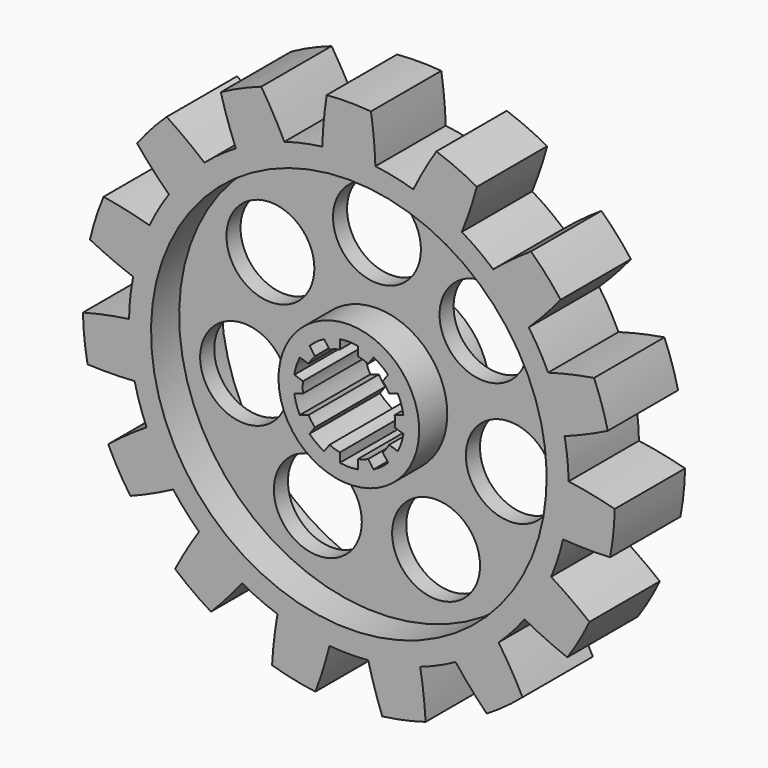
from build123d import *

# Parameters (mm, degrees)
F1_DEPTH = 20
F3_DEPTH = 20
F4_R     = 10
F5_DEPTH = 25
F6_R     = 45
F6_R_2   = 16
F7_DEPTH = 8
F8_W     = 24.246528
F8_H     = 29


with BuildPart() as f1:
    # F0 (on Front) → F1 (new body)
    with BuildSketch(Plane.XZ):
        with BuildLine():
            ThreePointArc((48.729363, -11.200408), (49.681325, -5.636126), (50, 0))
            ThreePointArc((50, 0), (49.998301, 0.412138), (49.993206, 0.824248))
            ThreePointArc((49.993206, 0.824248), (49.726095, 5.226423), (49.072105, 9.587936))
            ThreePointArc((49.072105, 9.587936), (47.552826, 15.45085), (45.335814, 21.087057))
            ThreePointArc((45.335814, 21.087057), (43.30127, 25), (40.929834, 28.718438))
            ThreePointArc((40.929834, 28.718438), (37.157241, 33.45653), (32.839448, 37.703722))
            ThreePointArc((32.839448, 37.703722), (29.389263, 40.45085), (25.710422, 42.883262))
            ThreePointArc((25.710422, 42.883262), (20.336832, 45.677273), (14.664844, 47.801071))
            ThreePointArc((14.664844, 47.801071), (10.395585, 48.90738), (6.045446, 49.63318))
            ThreePointArc((6.045446, 49.63318), (0, 50), (-6.045446, 49.63318))
            ThreePointArc((-6.045446, 49.63318), (-10.395585, 48.90738), (-14.664844, 47.801071))
            ThreePointArc((-14.664844, 47.801071), (-20.336832, 45.677273), (-25.710422, 42.883262))
            ThreePointArc((-25.710422, 42.883262), (-29.389263, 40.45085), (-32.839448, 37.703722))
            ThreePointArc((-32.839448, 37.703722), (-37.157241, 33.45653), (-40.929834, 28.718438))
            ThreePointArc((-40.929834, 28.718438), (-43.30127, 25), (-45.335814, 21.087057))
            ThreePointArc((-45.335814, 21.087057), (-47.552826, 15.45085), (-49.072105, 9.587936))
            ThreePointArc((-49.072105, 9.587936), (-49.726095, 5.226423), (-49.993206, 0.824248))
            ThreePointArc((-49.993206, 0.824248), (-49.726095, -5.226423), (-48.729363, -11.200408))
            ThreePointArc((-48.729363, -11.200408), (-47.552826, -15.45085), (-46.006318, -19.581081))
            ThreePointArc((-46.006318, -19.581081), (-43.30127, -25), (-39.960872, -30.0521))
            ThreePointArc((-39.960872, -30.0521), (-37.157241, -33.45653), (-34.06452, -36.600663))
            ThreePointArc((-34.06452, -36.600663), (-29.389263, -40.45085), (-24.282783, -43.70751))
            ThreePointArc((-24.282783, -43.70751), (-20.336832, -45.677273), (-16.232657, -47.291657))
            ThreePointArc((-16.232657, -47.291657), (-10.395585, -48.90738), (-4.40598, -49.805495))
            ThreePointArc((-4.40598, -49.805495), (0, -50), (4.40598, -49.805495))
            ThreePointArc((4.40598, -49.805495), (10.395585, -48.90738), (16.232657, -47.291657))
            ThreePointArc((16.232657, -47.291657), (20.336832, -45.677273), (24.282783, -43.70751))
            ThreePointArc((24.282783, -43.70751), (29.389263, -40.45085), (34.06452, -36.600663))
            ThreePointArc((34.06452, -36.600663), (37.157241, -33.45653), (39.960872, -30.0521))
            ThreePointArc((39.960872, -30.0521), (43.30127, -25), (46.006318, -19.581081))
            ThreePointArc((46.006318, -19.581081), (47.552826, -15.45085), (48.729363, -11.200408))
        make_face()
        with BuildLine():
            ThreePointArc((-25.710422, 42.883262), (-20.336832, 45.677273), (-14.664844, 47.801071))
            ThreePointArc((-14.664844, 47.801071), (-17.153833, 52.541957), (-19.920351, 57.126435))
            ThreePointArc((-19.920351, 57.126435), (-24.607567, 55.2695), (-29.123899, 53.028752))
            ThreePointArc((-29.123899, 53.028752), (-27.568128, 47.905214), (-25.710422, 42.883262))
        make_face()
        with BuildLine():
            ThreePointArc((-6.045446, 49.63318), (0, 50), (6.045446, 49.63318))
            ThreePointArc((6.045446, 49.63318), (5.699933, 54.976558), (5.037269, 60.289932))
            ThreePointArc((5.037269, 60.289932), (0, 60.5), (-5.037269, 60.289932))
            ThreePointArc((-5.037269, 60.289932), (-5.699933, 54.976558), (-6.045446, 49.63318))
        make_face()
        with BuildLine():
            ThreePointArc((14.664844, 47.801071), (20.336832, 45.677273), (25.710422, 42.883262))
            ThreePointArc((25.710422, 42.883262), (27.568128, 47.905214), (29.123899, 53.028752))
            ThreePointArc((29.123899, 53.028752), (24.607567, 55.2695), (19.920351, 57.126435))
            ThreePointArc((19.920351, 57.126435), (17.153833, 52.541957), (14.664844, 47.801071))
        make_face()
        with BuildLine():
            ThreePointArc((32.839448, 37.703722), (37.157241, 33.45653), (40.929834, 28.718438))
            ThreePointArc((40.929834, 28.718438), (44.669544, 32.550622), (48.174742, 36.598419))
            ThreePointArc((48.174742, 36.598419), (44.960262, 40.482402), (41.43356, 44.085259))
            ThreePointArc((41.43356, 44.085259), (37.041545, 41.022373), (32.839448, 37.703722))
        make_face()
        with BuildLine():
            ThreePointArc((45.335814, 21.087057), (47.552826, 15.45085), (49.072105, 9.587936))
            ThreePointArc((49.072105, 9.587936), (54.04719, 11.567733), (58.895735, 13.839886))
            ThreePointArc((58.895735, 13.839886), (57.538919, 18.695528), (55.782531, 23.421341))
            ThreePointArc((55.782531, 23.421341), (50.524438, 22.409649), (45.335814, 21.087057))
        make_face()
        with BuildLine():
            ThreePointArc((49.993206, 0.824248), (49.998301, 0.412138), (50, 0))
            ThreePointArc((50, 0), (49.681325, -5.636126), (48.729363, -11.200408))
            ThreePointArc((48.729363, -11.200408), (54.079586, -11.415323), (59.43312, -11.311688))
            ThreePointArc((59.43312, -11.311688), (60.168575, -6.323972), (60.486196, -1.29234))
            ThreePointArc((60.486196, -1.29234), (55.271196, -0.077907), (49.993206, 0.824248))
        make_face()
        with BuildLine():
            ThreePointArc((54.731247, -25.782563), (50.461062, -22.551992), (46.006318, -19.581081))
            ThreePointArc((46.006318, -19.581081), (43.30127, -25), (39.960872, -30.0521))
            ThreePointArc((39.960872, -30.0521), (44.76113, -32.424566), (49.693979, -34.507369))
            ThreePointArc((49.693979, -34.507369), (52.394537, -30.25), (54.731247, -25.782563))
        make_face()
        with BuildLine():
            ThreePointArc((39.512769, -45.814747), (36.925753, -41.126633), (34.06452, -36.600663))
            ThreePointArc((34.06452, -36.600663), (29.389263, -40.45085), (24.282783, -43.70751))
            ThreePointArc((24.282783, -43.70751), (27.703068, -47.827306), (31.362297, -51.736412))
            ThreePointArc((31.362297, -51.736412), (35.561008, -48.945528), (39.512769, -45.814747))
        make_face()
        with BuildLine():
            ThreePointArc((17.462174, -57.925145), (17.005645, -52.590106), (16.232657, -47.291657))
            ThreePointArc((16.232657, -47.291657), (10.395585, -48.90738), (4.40598, -49.805495))
            ThreePointArc((4.40598, -49.805495), (5.854894, -54.960271), (7.607789, -60.01976))
            ThreePointArc((7.607789, -60.01976), (12.578657, -59.17793), (17.462174, -57.925145))
        make_face()
        with BuildLine():
            ThreePointArc((-7.607789, -60.01976), (-5.854894, -54.960271), (-4.40598, -49.805495))
            ThreePointArc((-4.40598, -49.805495), (-10.395585, -48.90738), (-16.232657, -47.291657))
            ThreePointArc((-16.232657, -47.291657), (-17.005645, -52.590106), (-17.462174, -57.925145))
            ThreePointArc((-17.462174, -57.925145), (-12.578657, -59.17793), (-7.607789, -60.01976))
        make_face()
        with BuildLine():
            ThreePointArc((-31.362297, -51.736412), (-27.703068, -47.827306), (-24.282783, -43.70751))
            ThreePointArc((-24.282783, -43.70751), (-29.389263, -40.45085), (-34.06452, -36.600663))
            ThreePointArc((-34.06452, -36.600663), (-36.925753, -41.126633), (-39.512769, -45.814747))
            ThreePointArc((-39.512769, -45.814747), (-35.561008, -48.945528), (-31.362297, -51.736412))
        make_face()
        with BuildLine():
            ThreePointArc((-49.693979, -34.507369), (-44.76113, -32.424566), (-39.960872, -30.0521))
            ThreePointArc((-39.960872, -30.0521), (-43.30127, -25), (-46.006318, -19.581081))
            ThreePointArc((-46.006318, -19.581081), (-50.461062, -22.551992), (-54.731247, -25.782563))
            ThreePointArc((-54.731247, -25.782563), (-52.394537, -30.25), (-49.693979, -34.507369))
        make_face()
        with BuildLine():
            ThreePointArc((-59.43312, -11.311688), (-54.079586, -11.415323), (-48.729363, -11.200408))
            ThreePointArc((-48.729363, -11.200408), (-49.726095, -5.226423), (-49.993206, 0.824248))
            ThreePointArc((-49.993206, 0.824248), (-55.271196, -0.077907), (-60.486196, -1.29234))
            ThreePointArc((-60.486196, -1.29234), (-60.168575, -6.323972), (-59.43312, -11.311688))
        make_face()
        with BuildLine():
            ThreePointArc((-49.072105, 9.587936), (-47.552826, 15.45085), (-45.335814, 21.087057))
            ThreePointArc((-45.335814, 21.087057), (-50.524438, 22.409649), (-55.782531, 23.421341))
            ThreePointArc((-55.782531, 23.421341), (-57.538919, 18.695528), (-58.895735, 13.839886))
            ThreePointArc((-58.895735, 13.839886), (-54.04719, 11.567733), (-49.072105, 9.587936))
        make_face()
        with BuildLine():
            ThreePointArc((-40.929834, 28.718438), (-37.157241, 33.45653), (-32.839448, 37.703722))
            ThreePointArc((-32.839448, 37.703722), (-37.041545, 41.022373), (-41.43356, 44.085259))
            ThreePointArc((-41.43356, 44.085259), (-44.960262, 40.482402), (-48.174742, 36.598419))
            ThreePointArc((-48.174742, 36.598419), (-44.669544, 32.550622), (-40.929834, 28.718438))
        make_face()
    extrude(amount=F1_DEPTH)

    # F2 (on Front) → F3 (cut)
    with BuildSketch(Plane.XZ):
        with BuildLine():
            ThreePointArc((10.427405, -1.232572), (10.481835, -0.617354), (10.5, 0))
            ThreePointArc((10.5, 0), (10.481835, 0.617354), (10.427405, 1.232572))
            ThreePointArc((10.427405, 1.232572), (9.986093, 3.244678), (9.160435, 5.131903))
            ThreePointArc((9.160435, 5.131903), (8.494678, 6.171745), (7.71146, 7.126246))
            ThreePointArc((7.71146, 7.126246), (6.171745, 8.494678), (4.39449, 9.536166))
            ThreePointArc((4.39449, 9.536166), (3.244678, 9.986093), (2.05, 10.297937))
            ThreePointArc((2.05, 10.297937), (0, 10.5), (-2.05, 10.297937))
            ThreePointArc((-2.05, 10.297937), (-3.244678, 9.986093), (-4.39449, 9.536166))
            ThreePointArc((-4.39449, 9.536166), (-6.171745, 8.494678), (-7.71146, 7.126246))
            ThreePointArc((-7.71146, 7.126246), (-8.494678, 6.171745), (-9.160435, 5.131903))
            ThreePointArc((-9.160435, 5.131903), (-9.986093, 3.244678), (-10.427405, 1.232572))
            ThreePointArc((-10.427405, 1.232572), (-10.5, 0), (-10.427405, -1.232572))
            ThreePointArc((-10.427405, -1.232572), (-9.986093, -3.244678), (-9.160435, -5.131903))
            ThreePointArc((-9.160435, -5.131903), (-8.494678, -6.171745), (-7.71146, -7.126246))
            ThreePointArc((-7.71146, -7.126246), (-6.171745, -8.494678), (-4.39449, -9.536166))
            ThreePointArc((-4.39449, -9.536166), (-3.244678, -9.986093), (-2.05, -10.297937))
            ThreePointArc((-2.05, -10.297937), (0, -10.5), (2.05, -10.297937))
            ThreePointArc((2.05, -10.297937), (3.244678, -9.986093), (4.39449, -9.536166))
            ThreePointArc((4.39449, -9.536166), (6.171745, -8.494678), (7.71146, -7.126246))
            ThreePointArc((7.71146, -7.126246), (8.494678, -6.171745), (9.160435, -5.131903))
            ThreePointArc((9.160435, -5.131903), (9.986093, -3.244678), (10.427405, -1.232572))
        make_face()
        with BuildLine():
            ThreePointArc((-7.71146, 7.126246), (-6.171745, 8.494678), (-4.39449, 9.536166))
            Line((-4.39449, 9.536166), (-5.619142, 11.221753))
            ThreePointArc((-5.619142, 11.221753), (-7.376705, 10.153163), (-8.936111, 8.811834))
            Line((-8.936111, 8.811834), (-7.71146, 7.126246))
        make_face()
        with BuildLine():
            ThreePointArc((-10.427405, 1.232572), (-9.986093, 3.244678), (-9.160435, 5.131903))
            Line((-9.160435, 5.131903), (-11.141962, 5.775741))
            ThreePointArc((-11.141962, 5.775741), (-11.935759, 3.878163), (-12.408932, 1.876409))
            Line((-12.408932, 1.876409), (-10.427405, 1.232572))
        make_face()
        with BuildLine():
            ThreePointArc((-2.05, 10.297937), (0, 10.5), (2.05, 10.297937))
            Line((2.05, 10.297937), (2.05, 12.381438))
            ThreePointArc((2.05, 12.381438), (0, 12.55), (-2.05, 12.381438))
            Line((-2.05, 12.381438), (-2.05, 10.297937))
        make_face()
        with BuildLine():
            ThreePointArc((4.39449, 9.536166), (6.171745, 8.494678), (7.71146, 7.126246))
            Line((7.71146, 7.126246), (8.936111, 8.811834))
            ThreePointArc((8.936111, 8.811834), (7.376705, 10.153163), (5.619142, 11.221753))
            Line((5.619142, 11.221753), (4.39449, 9.536166))
        make_face()
        with BuildLine():
            ThreePointArc((9.160435, 5.131903), (9.986093, 3.244678), (10.427405, 1.232572))
            Line((10.427405, 1.232572), (12.408932, 1.876409))
            ThreePointArc((12.408932, 1.876409), (11.935759, 3.878163), (11.141962, 5.775741))
            Line((11.141962, 5.775741), (9.160435, 5.131903))
        make_face()
        with BuildLine():
            Line((12.408932, -1.876409), (10.427405, -1.232572))
            ThreePointArc((10.427405, -1.232572), (9.986093, -3.244678), (9.160435, -5.131903))
            Line((9.160435, -5.131903), (11.141962, -5.775741))
            ThreePointArc((11.141962, -5.775741), (11.935759, -3.878163), (12.408932, -1.876409))
        make_face()
        with BuildLine():
            Line((8.936111, -8.811834), (7.71146, -7.126246))
            ThreePointArc((7.71146, -7.126246), (6.171745, -8.494678), (4.39449, -9.536166))
            Line((4.39449, -9.536166), (5.619142, -11.221753))
            ThreePointArc((5.619142, -11.221753), (7.376705, -10.153163), (8.936111, -8.811834))
        make_face()
        with BuildLine():
            Line((2.05, -12.381438), (2.05, -10.297937))
            ThreePointArc((2.05, -10.297937), (0, -10.5), (-2.05, -10.297937))
            Line((-2.05, -10.297937), (-2.05, -12.381438))
            ThreePointArc((-2.05, -12.381438), (0, -12.55), (2.05, -12.381438))
        make_face()
        with BuildLine():
            Line((-5.619142, -11.221753), (-4.39449, -9.536166))
            ThreePointArc((-4.39449, -9.536166), (-6.171745, -8.494678), (-7.71146, -7.126246))
            Line((-7.71146, -7.126246), (-8.936111, -8.811834))
            ThreePointArc((-8.936111, -8.811834), (-7.376705, -10.153163), (-5.619142, -11.221753))
        make_face()
        with BuildLine():
            Line((-11.141962, -5.775741), (-9.160435, -5.131903))
            ThreePointArc((-9.160435, -5.131903), (-9.986093, -3.244678), (-10.427405, -1.232572))
            Line((-10.427405, -1.232572), (-12.408932, -1.876409))
            ThreePointArc((-12.408932, -1.876409), (-11.935759, -3.878163), (-11.141962, -5.775741))
        make_face()
    extrude(amount=F3_DEPTH, mode=Mode.SUBTRACT)

    # F4 (on Front) → F5 (cut)
    with BuildSketch(Plane.XZ):
        with Locations((24.236776, 19.328184)):
            Circle(F4_R)
        with Locations((0, 31)):
            Circle(F4_R)
        with Locations((-24.236776, 19.328184)):
            Circle(F4_R)
        with Locations((-30.222765, -6.898149)):
            Circle(F4_R)
        with Locations((-13.450396, -27.930035)):
            Circle(F4_R)
        with Locations((13.450396, -27.930035)):
            Circle(F4_R)
        with Locations((30.222765, -6.898149)):
            Circle(F4_R)
    extrude(amount=F5_DEPTH, mode=Mode.SUBTRACT)

    # F6 (on Front) → F7 (cut)
    with BuildSketch(Plane.XZ):
        with Locations((0, -1.586197)):
            Circle(F6_R)
        Circle(F6_R_2, mode=Mode.SUBTRACT)
    extrude(amount=F7_DEPTH, mode=Mode.SUBTRACT)

    # F8 (on Right) → F9 (revolve, cut)
    with BuildSketch(Plane.YZ):
        with Locations((-24.123264, 30.5)):
            Rectangle(F8_W, F8_H)
    revolve(axis=Axis((0, -38.301842, 0), (0, -1, 0)), mode=Mode.SUBTRACT)


solid = f1.part
